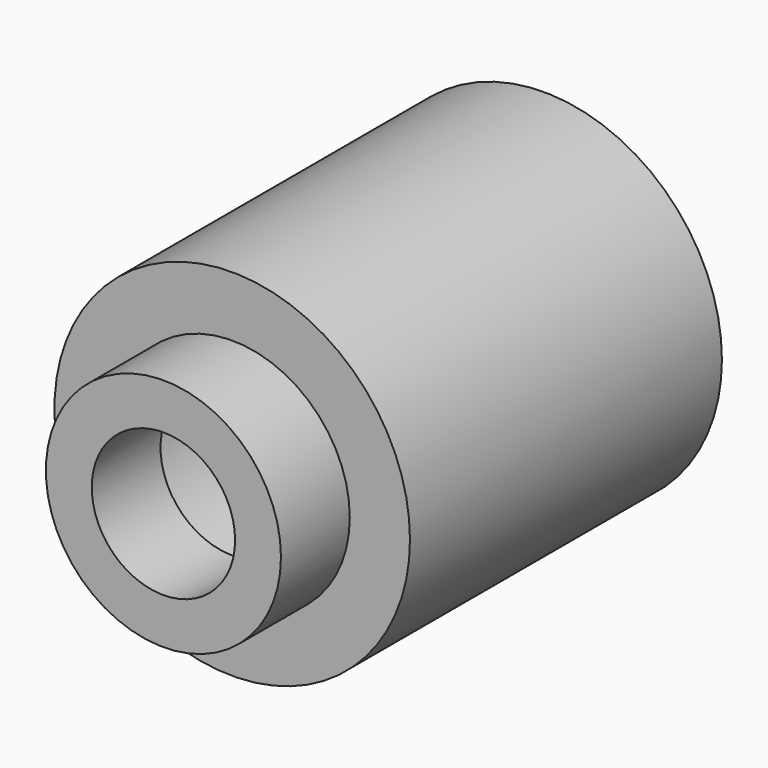
from build123d import *

# Parameters (mm, degrees)
F0_R     = 31
F0_R_2   = 20.5
F1_DEPTH = 68
F0_R_3   = 12.5
F2_DEPTH = 15


with BuildPart() as f1:
    # F0 (on Front) → F1 (new body)
    with BuildSketch(Plane.XZ):
        Circle(F0_R)
        Circle(F0_R_2, mode=Mode.SUBTRACT)
    extrude(amount=-F1_DEPTH)

    # F0 (on Front) → F2 (join)
    with BuildSketch(Plane.XZ):
        Circle(F0_R_2)
        Circle(F0_R_3, mode=Mode.SUBTRACT)
    extrude(amount=F2_DEPTH)


solid = f1.part
